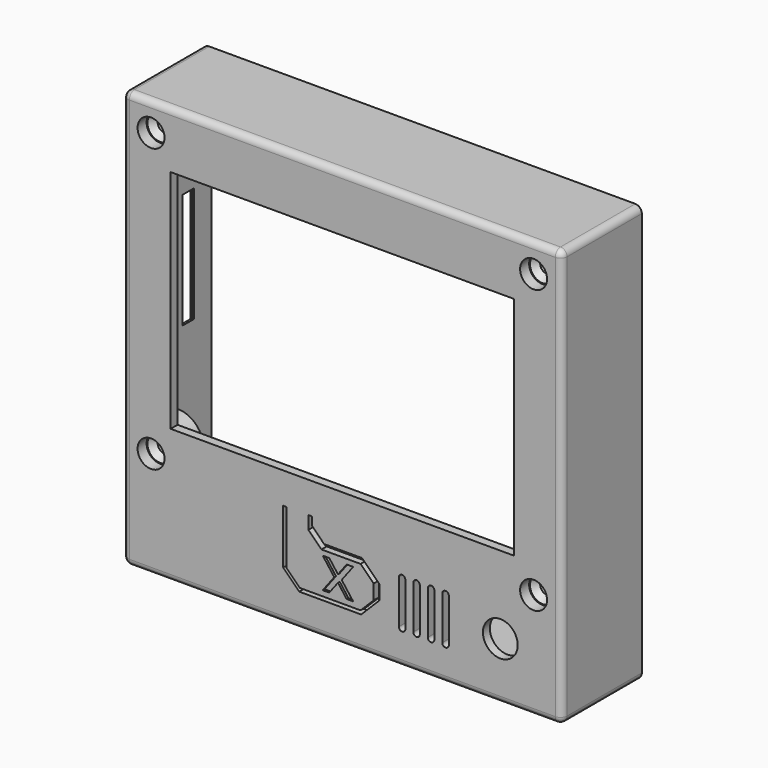
from build123d import *

# Parameters (mm, degrees)
SKETCH_W            = 101
SKETCH_H            = 96
PAD_DEPTH           = 23
SKETCH001_W         = 97
SKETCH001_H         = 92
POCKET_DEPTH        = 21
SKETCH002_R         = 6
PAD001_DEPTH        = 5.6
SKETCH003_R         = 1.6
POCKET001_DEPTH     = 7
SKETCH004_R         = 1.6
POCKET002_DEPTH     = 5
SKETCH005_W         = 79
SKETCH005_H         = 52
POCKET003_DEPTH     = 23.001
SKETCH006_R         = 3
PAD002_DEPTH        = 6
POCKET004_DEPTH     = 2.001
LINEARPATTERN_COUNT = 4
LINEARPATTERN_PITCH = 3.333333
SKETCH008_R         = 4
POCKET005_DEPTH     = 2.001
POCKET006_DEPTH     = 2.001
SKETCH010_R         = 3
POCKET007_DEPTH     = 0.5
POCKET008_DEPTH     = 0.5
SKETCH012_W         = 26.5
SKETCH012_H         = 3.3
POCKET009_DEPTH     = 3
CHAMFER_SIZE        = 1.5
FILLET_R            = 1.5
CHAMFER001_SIZE     = 0.5
CHAMFER002_SIZE     = 0.49
SKETCH013_R         = 3.1
POCKET010_DEPTH     = 2.6
CHAMFER003_SIZE     = 1.3


with BuildPart() as part:
    # Sketch → Pad (new body)
    with BuildSketch(Plane.XZ):
        with Locations((50.5, 48)):
            Rectangle(SKETCH_W, SKETCH_H)
    extrude(amount=PAD_DEPTH)

    # Sketch001 (on Face5 of Pad) → Pocket (cut)
    with BuildSketch(Plane(origin=(0, 0, 0), x_dir=(1, 0, 0), z_dir=(0, 1, 0))):
        with Locations((50.5, -48)):
            Rectangle(SKETCH001_W, SKETCH001_H)
    extrude(amount=-POCKET_DEPTH, mode=Mode.SUBTRACT)

    # Sketch002 (on Face11 of Pocket) → Pad001 (join)
    with BuildSketch(Plane(origin=(0, -21, 0), x_dir=(1, 0, 0), z_dir=(0, 1, 0))):
        with Locations((94.5, -89.5)):
            Circle(SKETCH002_R)
        with Locations((94.5, -24.5)):
            Circle(SKETCH002_R)
        with Locations((6.5, -24.5)):
            Circle(SKETCH002_R)
        with Locations((6.5, -89.5)):
            Circle(SKETCH002_R)
    extrude(amount=PAD001_DEPTH)

    # Sketch003 (on Face17 of Pad001) → Pocket001 (cut)
    with BuildSketch(Plane(origin=(0, -15.4, 0), x_dir=(1, 0, 0), z_dir=(0, 1, 0))):
        with Locations((6.5, -24.5)):
            Circle(SKETCH003_R)
        with Locations((94.5, -24.5)):
            Circle(SKETCH003_R)
        with Locations((6.5, -89.5)):
            Circle(SKETCH003_R)
        with Locations((94.5, -89.5)):
            Circle(SKETCH003_R)
    extrude(amount=-POCKET001_DEPTH, mode=Mode.SUBTRACT)

    # Sketch004 (on Face14 of Pocket001) → Pocket002 (cut)
    with BuildSketch(Plane(origin=(0, -15.4, 0), x_dir=(1, 0, 0), z_dir=(0, 1, 0))):
        with Locations((6.5, -24.5)):
            Circle(SKETCH004_R)
        with Locations((94.5, -24.5)):
            Circle(SKETCH004_R)
        with Locations((94.5, -89.5)):
            Circle(SKETCH004_R)
        with Locations((6.5, -89.5)):
            Circle(SKETCH004_R)
    extrude(amount=-POCKET002_DEPTH, mode=Mode.SUBTRACT)

    # Sketch005 (on Face5 of Pocket002) → Pocket003 (cut, through all)
    with BuildSketch(Plane.XZ.offset(23)):
        with Locations((50.5, 57)):
            Rectangle(SKETCH005_W, SKETCH005_H)
    extrude(amount=-POCKET003_DEPTH, mode=Mode.SUBTRACT)

    # Sketch006 (on Face15 of Pocket003) → Pad002 (join)
    with BuildSketch(Plane(origin=(0, -21, 0), x_dir=(1, 0, 0), z_dir=(0, 1, 0))):
        with Locations((53, -13.15)):
            Circle(SKETCH006_R)
    extrude(amount=PAD002_DEPTH)

    # Sketch007 (on Face15 of Pad002) → Pocket004 (cut, through all)
    with BuildSketch(Plane(origin=(0, -21, 0), x_dir=(1, 0, 0), z_dir=(0, 1, 0))):
        with BuildLine():
            ThreePointArc((75, -8), (74.25, -7.25), (73.5, -8))
            Line((73.5, -8), (73.5, -18))
            ThreePointArc((73.5, -18), (74.25, -18.75), (75, -18))
            Line((75, -8), (75, -18))
        make_face()
    pocket004 = extrude(amount=-POCKET004_DEPTH, mode=Mode.SUBTRACT)

    # LinearPattern: Pocket004 ×4
    with Locations(*[(-i * LINEARPATTERN_PITCH, 0, 0) for i in range(1, LINEARPATTERN_COUNT)]):
        add(pocket004, mode=Mode.SUBTRACT)

    # Sketch008 (on Face31 of LinearPattern) → Pocket005 (cut, through all)
    with BuildSketch(Plane(origin=(0, -21, 0), x_dir=(1, 0, 0), z_dir=(0, 1, 0))):
        with Locations((86.85, -13.15)):
            Circle(SKETCH008_R)
    extrude(amount=-POCKET005_DEPTH, mode=Mode.SUBTRACT)

    # Sketch009 (on Face32 of Pocket005) → Pocket006 (cut, through all)
    with BuildSketch(Plane(origin=(0, -21, 0), x_dir=(1, 0, 0), z_dir=(0, 1, 0))):
        Polygon((57.701562, -14.851562), (57.701562, -11.448438), (54.701562, -8.448438), (40.701562, -8.448438), (37.701562, -11.448438), (37.701562, -23.851562), (36.901562, -23.851562), (36.901562, -11.318438), (40.571562, -7.648438), (54.836522, -7.648438), (58.501562, -11.313478), (58.501562, -14.986522), (54.836522, -18.651562), (46.101562, -18.651562), (43.501562, -21.251562), (43.501562, -23.851562), (42.701562, -23.851562), (42.701562, -20.851562), (45.701562, -17.851562), (54.701562, -17.851562), align=None)
    extrude(amount=-POCKET006_DEPTH, mode=Mode.SUBTRACT)

    # Sketch010 (on Face52 of Pocket006) → Pocket007 (cut)
    with BuildSketch(Plane(origin=(0, -21, 0), x_dir=(1, 0, 0), z_dir=(0, 1, 0))):
        Polygon((42.701561, -23.851564), (37.701561, -23.851566), (37.701561, -11.448439), (40.732891, -8.470233), (54.701561, -8.470233), (57.701562, -11.448438), (57.701562, -14.851564), (54.701561, -17.851564), (45.701561, -17.851564), (42.701561, -20.851564), align=None)
        with Locations((53, -13.15)):
            Circle(SKETCH010_R, mode=Mode.SUBTRACT)
    extrude(amount=-POCKET007_DEPTH, mode=Mode.SUBTRACT)

    # Sketch011 (on Face5 of Pocket007) → Pocket008 (cut)
    with BuildSketch(Plane.XZ.offset(23)):
        Polygon((46, 16.7), (47.5, 16.7), (49.5, 14.054249), (51.5, 16.7), (53, 16.7), (50.354249, 13.2), (53, 9.7), (51.5, 9.7), (49.5, 12.345751), (47.5, 9.7), (46, 9.7), (48.645751, 13.2), align=None)
    extrude(amount=-POCKET008_DEPTH, mode=Mode.SUBTRACT)

    # Sketch012 (on Face2 of Pocket008) → Pocket009 (cut)
    with BuildSketch(Plane(origin=(0, 0, 0), x_dir=(0, 0, -1), z_dir=(-1, 0, 0))):
        with Locations((-56.25, 6.65)):
            Rectangle(SKETCH012_W, SKETCH012_H)
    extrude(amount=-POCKET009_DEPTH, mode=Mode.SUBTRACT)

    # Chamfer
    chamfer_edges = [part.edges().sort_by_distance(p)[0] for p in [
        (0, -8.3, 56.25),
        (0, -6.65, 69.5),
        (0, -6.65, 43),
        (0, -5, 56.25),
    ]]
    chamfer(chamfer_edges, length=CHAMFER_SIZE)

    # Fillet
    fillet_edges = [part.edges().sort_by_distance(p)[0] for p in [
        (101, -11.5, 96),
        (101, -11.5, 0),
        (0, -11.5, 96),
        (0, -11.5, 0),
        (0, -23, 48),
        (50.5, -23, 0),
        (101, -23, 48),
        (50.5, -23, 96),
    ]]
    fillet(fillet_edges, radius=FILLET_R)

    # Chamfer001
    chamfer001_edges = [part.edges().sort_by_distance(p)[0] for p in [
        (44.801562, -23, 19.951562),
        (58.501562, -23, 13.15),
        (56.669042, -23, 16.819042),
        (50.469042, -23, 18.651562),
    ]]
    chamfer(chamfer001_edges, length=CHAMFER001_SIZE)

    # Chamfer002
    chamfer002_edges = [part.edges().sort_by_distance(p)[0] for p in [
        (40.201561, -21.5, 23.851565),
    ]]
    chamfer(chamfer002_edges, length=CHAMFER002_SIZE)

    # Sketch013 (on Face4 of Chamfer002) → Pocket010 (cut)
    with BuildSketch(Plane.XZ.offset(23)):
        with Locations((94.5, 89.5)):
            Circle(SKETCH013_R)
        with Locations((6.5, 89.5)):
            Circle(SKETCH013_R)
        with Locations((6.5, 24.5)):
            Circle(SKETCH013_R)
        with Locations((94.5, 24.5)):
            Circle(SKETCH013_R)
    extrude(amount=-POCKET010_DEPTH, mode=Mode.SUBTRACT)

    # Chamfer003
    chamfer003_edges = [part.edges().sort_by_distance(p)[0] for p in [
        (4.9, -20.4, 89.5),
        (4.9, -20.4, 24.5),
        (92.9, -20.4, 24.5),
        (92.9, -20.4, 89.5),
    ]]
    chamfer(chamfer003_edges, length=CHAMFER003_SIZE)


solid = part.part
